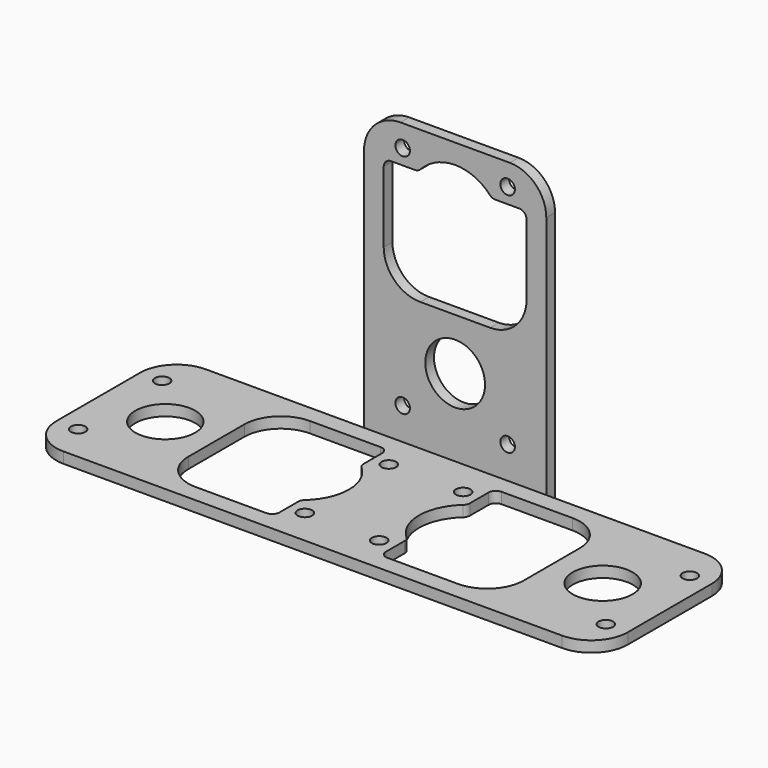
from build123d import *

# Parameters (mm, degrees)
F0_W     = 78.4
F0_H     = 24.4
F0_R     = 1
F0_R_2   = 4.1
F1_DEPTH = 1.5
F2_W     = 25
F2_H     = 1.5
F3_DEPTH = 40
F4_R     = 1
F4_R_2   = 4.1
F5_DEPTH = 1.5
F6_R     = 5


with BuildPart() as f1:
    # F0 (on Top) → F1 (new body)
    with BuildSketch(Plane.XY):
        Rectangle(F0_W, F0_H)
        with Locations((-36.2, -7.2)):
            Circle(F0_R, mode=Mode.SUBTRACT)
        with Locations((-5.1, -7.2)):
            Circle(F0_R, mode=Mode.SUBTRACT)
        with Locations((5.1, -7.2)):
            Circle(F0_R, mode=Mode.SUBTRACT)
        with Locations((36.2, -7.2)):
            Circle(F0_R, mode=Mode.SUBTRACT)
        with Locations((-30, 0)):
            Circle(F0_R_2, mode=Mode.SUBTRACT)
        with BuildLine():
            ThreePointArc((-23, 4.8), (-21.535534, 8.335534), (-18, 9.8))
            Line((-18, 9.8), (-8.3, 9.8))
            ThreePointArc((-8.3, 9.8), (-7.592893, 9.507107), (-7.3, 8.8))
            Line((-7.3, 8.8), (-7.3, 5.59017))
            ThreePointArc((-7.3, 5.59017), (-7.212871, 5.181922), (-6.966667, 4.844814))
            ThreePointArc((-6.966667, 4.844814), (-4.8, 0), (-6.966667, -4.844814))
            ThreePointArc((-6.966667, -4.844814), (-7.212871, -5.181922), (-7.3, -5.59017))
            Line((-7.3, -5.59017), (-7.3, -8.8))
            ThreePointArc((-7.3, -8.8), (-7.592893, -9.507107), (-8.3, -9.8))
            Line((-8.3, -9.8), (-18, -9.8))
            ThreePointArc((-18, -9.8), (-21.535534, -8.335534), (-23, -4.8))
            Line((-23, -4.8), (-23, 4.8))
        make_face(mode=Mode.SUBTRACT)
        with Locations((-36.2, 7.2)):
            Circle(F0_R, mode=Mode.SUBTRACT)
        with Locations((-5.1, 7.2)):
            Circle(F0_R, mode=Mode.SUBTRACT)
        with BuildLine():
            Line((7.3, 5.59017), (7.3, 8.8))
            ThreePointArc((7.3, 8.8), (7.592893, 9.507107), (8.3, 9.8))
            Line((8.3, 9.8), (18, 9.8))
            ThreePointArc((18, 9.8), (21.535534, 8.335534), (23, 4.8))
            Line((23, 4.8), (23, -4.8))
            ThreePointArc((23, -4.8), (21.535534, -8.335534), (18, -9.8))
            Line((18, -9.8), (8.3, -9.8))
            ThreePointArc((8.3, -9.8), (7.592893, -9.507107), (7.3, -8.8))
            Line((7.3, -8.8), (7.3, -5.59017))
            ThreePointArc((7.3, -5.59017), (7.212871, -5.181922), (6.966667, -4.844814))
            ThreePointArc((6.966667, -4.844814), (4.8, 0), (6.966667, 4.844814))
            ThreePointArc((6.966667, 4.844814), (7.212871, 5.181922), (7.3, 5.59017))
        make_face(mode=Mode.SUBTRACT)
        with Locations((30, 0)):
            Circle(F0_R_2, mode=Mode.SUBTRACT)
        with Locations((5.1, 7.2)):
            Circle(F0_R, mode=Mode.SUBTRACT)
        with Locations((36.2, 7.2)):
            Circle(F0_R, mode=Mode.SUBTRACT)
    extrude(amount=F1_DEPTH)

    # F2 (on Top) → F3 (join)
    with BuildSketch(Plane.XY):
        with Locations((0, 12.95)):
            Rectangle(F2_W, F2_H)
    extrude(amount=F3_DEPTH)

    # F4 (on face) → F5 (cut, through all)
    with BuildSketch(Plane(origin=(0, 13.7, 0), x_dir=(-1, 0, 0), z_dir=(0, 1, 0))):
        with Locations((7.2, 37)):
            Circle(F4_R)
        with Locations((7.2, 5.9)):
            Circle(F4_R)
        with Locations((0, 12.1)):
            Circle(F4_R_2)
        with BuildLine():
            ThreePointArc((9.8, 33.9), (9.507107, 34.607107), (8.8, 34.9))
            Line((8.8, 34.9), (5.499091, 34.9))
            ThreePointArc((5.499091, 34.9), (5.099091, 34.983485), (4.765879, 35.22))
            ThreePointArc((4.765879, 35.22), (0, 37.3), (-4.765879, 35.22))
            ThreePointArc((-4.765879, 35.22), (-5.099091, 34.983485), (-5.499091, 34.9))
            Line((-5.499091, 34.9), (-8.8, 34.9))
            ThreePointArc((-8.8, 34.9), (-9.507107, 34.607107), (-9.8, 33.9))
            Line((-9.8, 33.9), (-9.8, 24.2))
            ThreePointArc((-9.8, 24.2), (-8.335534, 20.664466), (-4.8, 19.2))
            Line((-4.8, 19.2), (4.8, 19.2))
            ThreePointArc((4.8, 19.2), (8.335534, 20.664466), (9.8, 24.2))
            Line((9.8, 24.2), (9.8, 33.9))
        make_face()
        with Locations((-7.2, 37)):
            Circle(F4_R)
        with Locations((-7.2, 5.9)):
            Circle(F4_R)
    extrude(amount=-F5_DEPTH, mode=Mode.SUBTRACT)

    # F6
    f6_edges = [f1.edges().sort_by_distance(p)[0] for p in [
        (-39.2, 12.2, 0.75),
        (-39.2, -12.2, 0.75),
        (39.2, 12.2, 0.75),
        (39.2, -12.2, 0.75),
        (-12.5, 12.95, 40),
        (12.5, 12.95, 40),
    ]]
    fillet(f6_edges, radius=F6_R)


solid = f1.part
